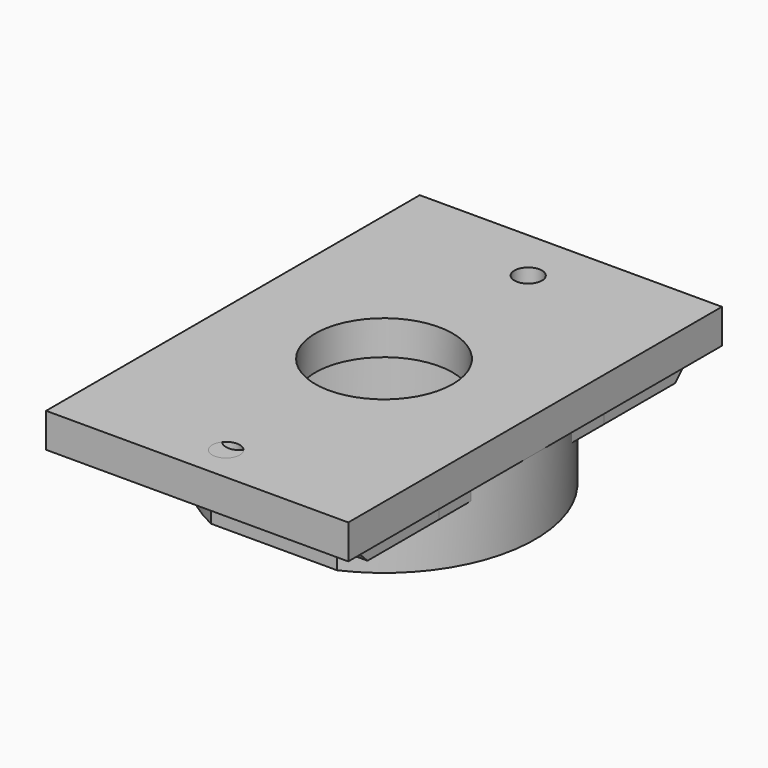
from build123d import *

# Parameters (mm, degrees)
RECTANGLE005_W   = 20
RECTANGLE005_H   = 6.25
EXTRUDE003_DEPTH = 11
RECTANGLE004_W   = 20
RECTANGLE004_H   = 6.25
EXTRUDE002_DEPTH = 11
CIRCLE_R         = 17.5
EXTRUDE_DEPTH    = 11
CIRCLE001_R      = 22
EXTRUDE001_DEPTH = 11
RECTANGLE010_W   = 4
RECTANGLE010_H   = 6
EXTRUDE011_DEPTH = 3
RECTANGLE011_W   = 4
RECTANGLE011_H   = 6
EXTRUDE012_DEPTH = 3
RECTANGLE012_W   = 4
RECTANGLE012_H   = 6
EXTRUDE013_DEPTH = 3
RECTANGLE013_W   = 4
RECTANGLE013_H   = 6
EXTRUDE014_DEPTH = 3
RECTANGLE006_W   = 10
RECTANGLE006_H   = 15
EXTRUDE007_DEPTH = 3
CHAMFER_SIZE     = 2
RECTANGLE008_W   = 10
RECTANGLE008_H   = 15
EXTRUDE008_DEPTH = 3
CHAMFER001_SIZE  = 2
RECTANGLE007_W   = 10
RECTANGLE007_H   = 15
EXTRUDE009_DEPTH = 3
CHAMFER002_SIZE  = 2
RECTANGLE009_W   = 10
RECTANGLE009_H   = 15
EXTRUDE010_DEPTH = 3
CHAMFER003_SIZE  = 2
CIRCLE003_R      = 2
EXTRUDE016_DEPTH = 5
CIRCLE004_R      = 2
EXTRUDE015_DEPTH = 5
CIRCLE002_R      = 10
EXTRUDE006_DEPTH = 5
RECTANGLE_W      = 44
RECTANGLE_H      = 34
EXTRUDE004_DEPTH = 5
RECTANGLE003_W   = 44
RECTANGLE003_H   = 34
EXTRUDE005_DEPTH = 5
CIRCLE007_R      = 2
EXTRUDE021_DEPTH = 5
CIRCLE006_R      = 2
EXTRUDE020_DEPTH = 5
CIRCLE005_R      = 10
EXTRUDE019_DEPTH = 5
RECTANGLE014_W   = 44
RECTANGLE014_H   = 34
EXTRUDE017_DEPTH = 5
RECTANGLE015_W   = 44
RECTANGLE015_H   = 34
EXTRUDE018_DEPTH = 5


with BuildPart() as extrude003:
    # Rectangle005 → Extrude003 (new body)
    with BuildSketch(Plane(origin=(-10, 20, 11), x_dir=(1, 0, 0), z_dir=(0, 0, 1))):
        with Locations((10, 3.125)):
            Rectangle(RECTANGLE005_W, RECTANGLE005_H)
    extrude(amount=-EXTRUDE003_DEPTH)


with BuildPart() as extrude002:
    # Rectangle004 → Extrude002 (new body)
    with BuildSketch(Plane(origin=(-10, -26.25, 11), x_dir=(1, 0, 0), z_dir=(0, 0, 1))):
        with Locations((10, 3.125)):
            Rectangle(RECTANGLE004_W, RECTANGLE004_H)
    extrude(amount=-EXTRUDE002_DEPTH)


with BuildPart() as extrude_body:
    # Circle → Extrude (new body)
    with BuildSketch(Plane.XY):
        Circle(CIRCLE_R)
    extrude(amount=EXTRUDE_DEPTH)


with BuildPart() as cut002:
    # Circle001 → Extrude001 (new body)
    with BuildSketch(Plane.XY):
        Circle(CIRCLE001_R)
    extrude(amount=EXTRUDE001_DEPTH)

    # Cut: cut Extrude body
    add(extrude_body.part, mode=Mode.SUBTRACT)

    # Cut001: cut Extrude002
    add(extrude002.part, mode=Mode.SUBTRACT)

    # Cut002: cut Extrude003
    add(extrude003.part, mode=Mode.SUBTRACT)


with BuildPart() as extrude011:
    # Rectangle010 → Extrude011 (new body)
    with BuildSketch(Plane(origin=(16, -15, 11), x_dir=(1, 0, 0), z_dir=(0, 0, 1))):
        with Locations((2, 3)):
            Rectangle(RECTANGLE010_W, RECTANGLE010_H)
    extrude(amount=-EXTRUDE011_DEPTH)


with BuildPart() as extrude012:
    # Rectangle011 → Extrude012 (new body)
    with BuildSketch(Plane(origin=(16, 9, 11), x_dir=(1, 0, 0), z_dir=(0, 0, 1))):
        with Locations((2, 3)):
            Rectangle(RECTANGLE011_W, RECTANGLE011_H)
    extrude(amount=-EXTRUDE012_DEPTH)


with BuildPart() as extrude013:
    # Rectangle012 → Extrude013 (new body)
    with BuildSketch(Plane(origin=(-20, 9, 11), x_dir=(1, 0, 0), z_dir=(0, 0, 1))):
        with Locations((2, 3)):
            Rectangle(RECTANGLE012_W, RECTANGLE012_H)
    extrude(amount=-EXTRUDE013_DEPTH)


with BuildPart() as extrude014:
    # Rectangle013 → Extrude014 (new body)
    with BuildSketch(Plane(origin=(-20, -15, 11), x_dir=(1, 0, 0), z_dir=(0, 0, 1))):
        with Locations((2, 3)):
            Rectangle(RECTANGLE013_W, RECTANGLE013_H)
    extrude(amount=-EXTRUDE014_DEPTH)


with BuildPart() as chamfer_body:
    # Rectangle006 → Extrude007 (new body)
    with BuildSketch(Plane(origin=(10, 15, 11), x_dir=(1, 0, 0), z_dir=(0, 0, 1))):
        with Locations((5, 7.5)):
            Rectangle(RECTANGLE006_W, RECTANGLE006_H)
    extrude(amount=-EXTRUDE007_DEPTH)

    # Chamfer
    chamfer_edges = [chamfer_body.edges().sort_by_distance(p)[0] for p in [
        (15, 30, 8),
    ]]
    chamfer(chamfer_edges, length=CHAMFER_SIZE)


with BuildPart() as chamfer001:
    # Rectangle008 → Extrude008 (new body)
    with BuildSketch(Plane(origin=(-20, 15, 11), x_dir=(1, 0, 0), z_dir=(0, 0, 1))):
        with Locations((5, 7.5)):
            Rectangle(RECTANGLE008_W, RECTANGLE008_H)
    extrude(amount=-EXTRUDE008_DEPTH)

    # Chamfer001
    chamfer001_edges = [chamfer001.edges().sort_by_distance(p)[0] for p in [
        (-15, 30, 8),
    ]]
    chamfer(chamfer001_edges, length=CHAMFER001_SIZE)


with BuildPart() as chamfer002:
    # Rectangle007 → Extrude009 (new body)
    with BuildSketch(Plane(origin=(10, -30, 11), x_dir=(1, 0, 0), z_dir=(0, 0, 1))):
        with Locations((5, 7.5)):
            Rectangle(RECTANGLE007_W, RECTANGLE007_H)
    extrude(amount=-EXTRUDE009_DEPTH)

    # Chamfer002
    chamfer002_edges = [chamfer002.edges().sort_by_distance(p)[0] for p in [
        (15, -30, 8),
    ]]
    chamfer(chamfer002_edges, length=CHAMFER002_SIZE)


with BuildPart() as chamfer003:
    # Rectangle009 → Extrude010 (new body)
    with BuildSketch(Plane(origin=(-20, -30, 11), x_dir=(1, 0, 0), z_dir=(0, 0, 1))):
        with Locations((5, 7.5)):
            Rectangle(RECTANGLE009_W, RECTANGLE009_H)
    extrude(amount=-EXTRUDE010_DEPTH)

    # Chamfer003
    chamfer003_edges = [chamfer003.edges().sort_by_distance(p)[0] for p in [
        (-15, -30, 8),
    ]]
    chamfer(chamfer003_edges, length=CHAMFER003_SIZE)


with BuildPart() as extrude016:
    # Circle003 → Extrude016 (new body)
    with BuildSketch(Plane(origin=(0, -26.25, 11), x_dir=(1, 0, 0), z_dir=(0, 0, 1))):
        Circle(CIRCLE003_R)
    extrude(amount=EXTRUDE016_DEPTH)


with BuildPart() as extrude015:
    # Circle004 → Extrude015 (new body)
    with BuildSketch(Plane(origin=(0, 26.25, 11), x_dir=(1, 0, 0), z_dir=(0, 0, 1))):
        Circle(CIRCLE004_R)
    extrude(amount=EXTRUDE015_DEPTH)


with BuildPart() as extrude006:
    # Circle002 → Extrude006 (new body)
    with BuildSketch(Plane.XY.offset(11)):
        Circle(CIRCLE002_R)
    extrude(amount=EXTRUDE006_DEPTH)


with BuildPart() as extrude004:
    # Rectangle → Extrude004 (new body)
    with BuildSketch(Plane(origin=(-22, -34, 11), x_dir=(1, 0, 0), z_dir=(0, 0, 1))):
        with Locations((22, 17)):
            Rectangle(RECTANGLE_W, RECTANGLE_H)
    extrude(amount=EXTRUDE004_DEPTH)


with BuildPart() as cut005:
    # Rectangle003 → Extrude005 (new body)
    with BuildSketch(Plane(origin=(-22, 0, 11), x_dir=(1, 0, 0), z_dir=(0, 0, 1))):
        with Locations((22, 17)):
            Rectangle(RECTANGLE003_W, RECTANGLE003_H)
    extrude(amount=EXTRUDE005_DEPTH)

    # Fusion: union Extrude004
    add(extrude004.part)

    # Cut003: cut Extrude006
    add(extrude006.part, mode=Mode.SUBTRACT)

    # Cut004: cut Extrude015
    add(extrude015.part, mode=Mode.SUBTRACT)

    # Cut005: cut Extrude016
    add(extrude016.part, mode=Mode.SUBTRACT)


with BuildPart() as extrude021:
    # Circle007 → Extrude021 (new body)
    with BuildSketch(Plane(origin=(0, -26.25, 11), x_dir=(1, 0, 0), z_dir=(0, 0, 1))):
        Circle(CIRCLE007_R)
    extrude(amount=EXTRUDE021_DEPTH)


with BuildPart() as extrude021_1:
    # Extrude021 placement: moved
    add(extrude021.part.moved(Location((0, -2.5, 0))))


with BuildPart() as extrude020:
    # Circle006 → Extrude020 (new body)
    with BuildSketch(Plane(origin=(0, 26.25, 11), x_dir=(1, 0, 0), z_dir=(0, 0, 1))):
        Circle(CIRCLE006_R)
    extrude(amount=EXTRUDE020_DEPTH)


with BuildPart() as extrude019:
    # Circle005 → Extrude019 (new body)
    with BuildSketch(Plane.XY.offset(11)):
        Circle(CIRCLE005_R)
    extrude(amount=EXTRUDE019_DEPTH)


with BuildPart() as extrude017:
    # Rectangle014 → Extrude017 (new body)
    with BuildSketch(Plane(origin=(-22, -34, 11), x_dir=(1, 0, 0), z_dir=(0, 0, 1))):
        with Locations((22, 17)):
            Rectangle(RECTANGLE014_W, RECTANGLE014_H)
    extrude(amount=EXTRUDE017_DEPTH)


with BuildPart() as cut008:
    # Rectangle015 → Extrude018 (new body)
    with BuildSketch(Plane(origin=(-22, 0, 11), x_dir=(1, 0, 0), z_dir=(0, 0, 1))):
        with Locations((22, 17)):
            Rectangle(RECTANGLE015_W, RECTANGLE015_H)
    extrude(amount=EXTRUDE018_DEPTH)

    # Fusion001: union Extrude017
    add(extrude017.part)

    # Cut006: cut Extrude019
    add(extrude019.part, mode=Mode.SUBTRACT)

    # Cut007: cut Extrude020
    add(extrude020.part, mode=Mode.SUBTRACT)

    # Cut008: cut Extrude021
    add(extrude021_1.part, mode=Mode.SUBTRACT)


solid = Compound([cut002.part, extrude011.part, extrude012.part, extrude013.part, extrude014.part, chamfer_body.part, chamfer001.part, chamfer002.part, chamfer003.part, cut005.part, cut008.part])
